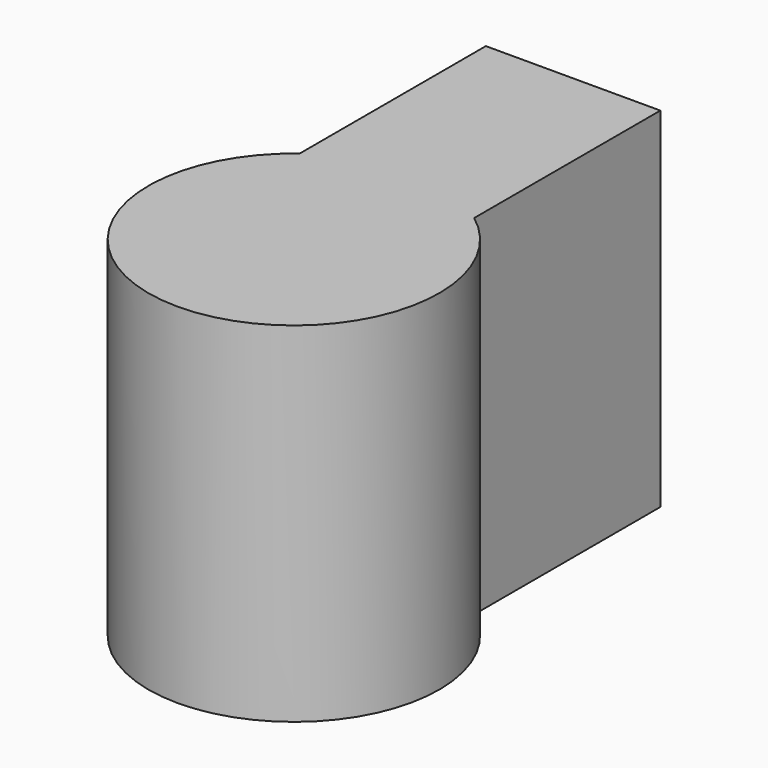
from build123d import *

# Parameters (mm, degrees)
PAD_DEPTH = 12


with BuildPart() as part:
    # Sketch → Pad (new body)
    with BuildSketch(Plane.XY):
        with BuildLine():
            ThreePointArc((-3, 4), (0, -5), (3, 4))
            Line((3, 4), (3, 12))
            Line((-3, 12), (3, 12))
            Line((-3, 4), (-3, 12))
        make_face()
    extrude(amount=PAD_DEPTH)


solid = part.part
